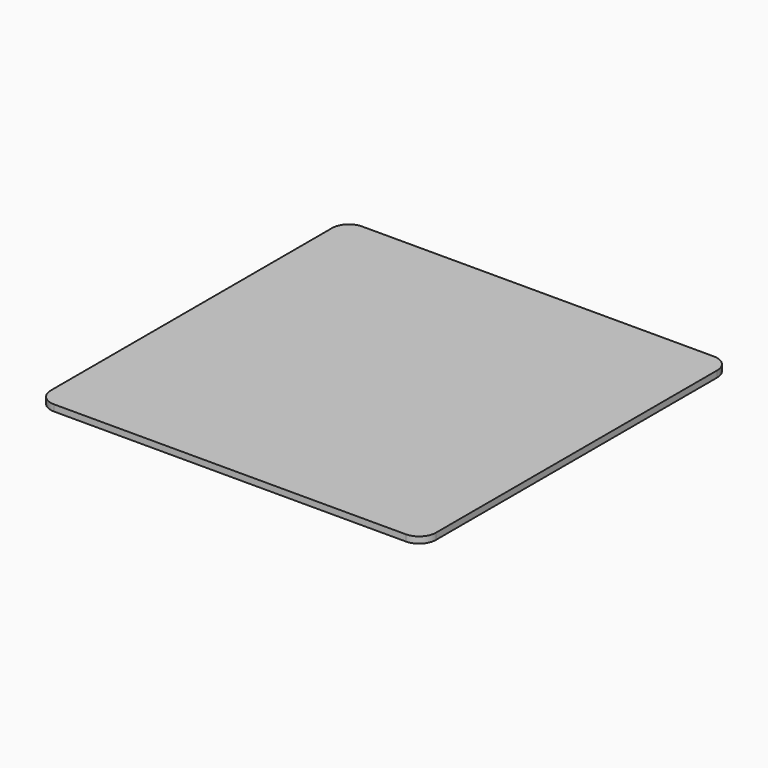
from build123d import *

# Parameters (mm, degrees)
F1_DEPTH = 4.826
F2_R     = 6.35
F3_DEPTH = 19.05
F5_W     = 50.8
F5_H     = 85.09
F6_DEPTH = 19.05


with BuildPart() as f1:
    # F0 (on Top) → F1 (new body)
    with BuildSketch(Plane.XY):
        with BuildLine():
            ThreePointArc((146.05, 133.35), (142.330256, 142.330256), (133.35, 146.05))
            Line((133.35, 146.05), (-133.35, 146.05))
            ThreePointArc((-133.35, 146.05), (-142.330256, 142.330256), (-146.05, 133.35))
            Line((-146.05, 133.35), (-146.05, -133.35))
            ThreePointArc((-146.05, -133.35), (-142.330256, -142.330256), (-133.35, -146.05))
            Line((-133.35, -146.05), (133.35, -146.05))
            ThreePointArc((133.35, -146.05), (142.330256, -142.330256), (146.05, -133.35))
            Line((146.05, -133.35), (146.05, 133.35))
        make_face()
    extrude(amount=F1_DEPTH)

    # F2 (on Top) → F3 (join)
    with BuildSketch(Plane.XY):
        with Locations((-17.399, -57.15)):
            Circle(F2_R)
        with Locations((17.399, -57.15)):
            Circle(F2_R)
        with Locations((17.399, 0)):
            Circle(F2_R)
        with Locations((-17.399, 0)):
            Circle(F2_R)
    extrude(amount=-F3_DEPTH)

    # F5 (on offset) → F6 (join)
    with BuildSketch(Plane.XY.offset(-19.05)):
        with Locations((0, -28.575)):
            Rectangle(F5_W, F5_H)
    extrude(amount=-F6_DEPTH)


solid = f1.part
